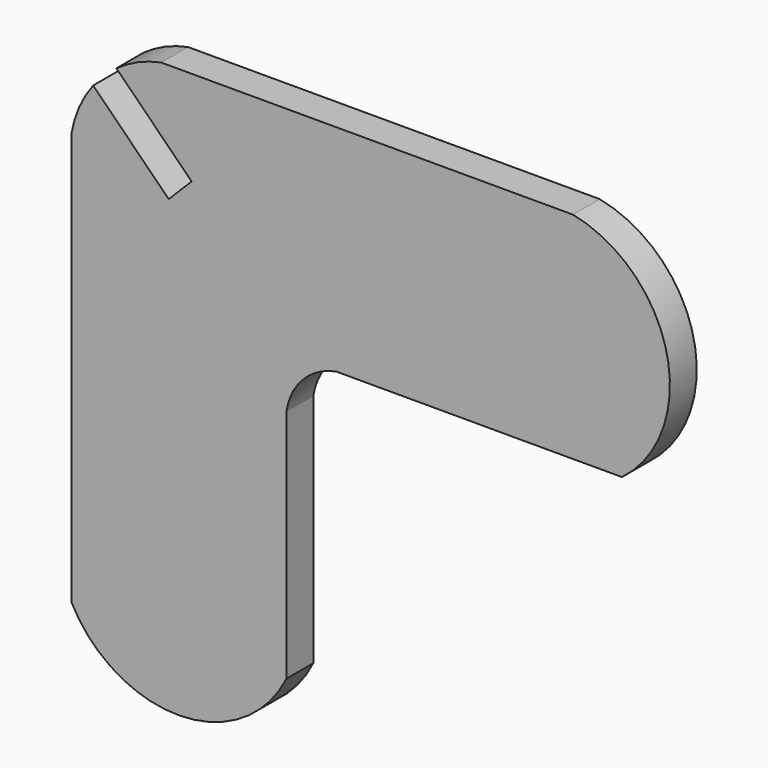
from build123d import *

# Parameters (mm, degrees)
F1_DEPTH = 3


with BuildPart() as f1:
    # F0 (on Front) → F1 (new body)
    with BuildSketch(Plane.XZ):
        with BuildLine():
            Line((-2.976018237, -3.4522186304), (-2.976018237, -0.7112144958))
            Line((-2.976018237, -0.7112144958), (-4.8061137058, 1.118880973))
            Line((-4.8061137058, 1.118880973), (-22.2056694329, 1.118880973))
            Line((-22.2056694329, 1.118880973), (-22.2056694329, -24.7238390148))
            ThreePointArc((-22.2056694329, -24.7238390148), (-12.5206211591, -30.5080748055), (-2.976018237, -24.494914338))
            Line((-2.976018237, -24.494914338), (-2.976018237, -5.1255999133))
            ThreePointArc((-2.976018237, -5.1255999133), (-3.0401081093, -4.2889092718), (-2.9760182369, -3.4522186304))
        make_face()
        with BuildLine():
            Line((-22.2056694329, 1.118880973), (-13.5058912988, 9.818658566))
            Line((-13.5058912988, 9.818658566), (-20.2551439519, 16.5679112191))
            ThreePointArc((-20.2551439519, 16.5679112191), (-21.4976121103, 14.4704948921), (-22.2056694329, 12.1377846226))
            Line((-22.2056694329, 12.1377846226), (-22.2056694329, 1.118880973))
        make_face()
        Polygon((-2.976018237, 3.3900048351), (-2.976018237, 20.348530973), (-11.4552815696, 11.8692681677), align=None)
        Polygon((-4.8061137058, 1.118880973), (-13.5058912988, 9.818658566), (-22.2056694329, 1.118880973), align=None)
        with BuildLine():
            Line((22.6377740155, 20.348530973), (-2.976018237, 20.348530973))
            Line((-2.976018237, 20.348530973), (-2.976018237, 3.3900048351))
            Line((-2.976018237, 3.3900048351), (-0.7048943749, 1.118880973))
            Line((-0.7048943749, 1.118880973), (1.486654611, 1.118880973))
            ThreePointArc((1.486654611, 1.118880973), (2.4534177425, 1.20461658), (3.4201808739, 1.118880973))
            Line((3.4201808739, 1.118880973), (27.0130801946, 1.118880973))
            ThreePointArc((27.0130801946, 1.118880973), (31.028528745, 12.1450925003), (22.6377740155, 20.348530973))
        make_face()
        with BuildLine():
            Line((-2.976018237, 20.348530973), (-14.1827978541, 20.348530973))
            ThreePointArc((-14.1827978541, 20.348530973), (-16.2761490838, 19.6875478868), (-18.179069268, 18.5930558661))
            Line((-18.179069268, 18.5930558661), (-11.4552815696, 11.8692681677))
            Line((-11.4552815696, 11.8692681677), (-2.976018237, 20.348530973))
        make_face()
        Polygon((-2.976018237, 1.118880973), (-2.976018237, 3.3900048351), (-11.4552815696, 11.8692681677), (-13.5058912988, 9.818658566), (-4.8061137058, 1.118880973), align=None)
        Polygon((-2.976018237, -0.7112144958), (-2.976018237, 1.118880973), (-4.8061137058, 1.118880973), align=None)
        with BuildLine():
            Line((-0.7048943749, 1.118880973), (-2.976018237, 1.118880973))
            Line((-2.976018237, 1.118880973), (-2.976018237, -0.7112144958))
            Line((-2.976018237, -0.7112144958), (-2.976018237, -3.4522186304))
            ThreePointArc((-2.9760182369, -3.4522186304), (-1.4774318683, -0.4512996484), (1.486654611, 1.118880973))
            Line((1.486654611, 1.118880973), (-0.7048943749, 1.118880973))
        make_face()
        Polygon((-0.7048943749, 1.118880973), (-2.976018237, 3.3900048351), (-2.976018237, 1.118880973), align=None)
        with BuildLine():
            Line((-2.976018237, -5.1255999133), (-2.976018237, -3.4522186304))
            ThreePointArc((-2.9760182369, -3.4522186304), (-3.0401081093, -4.2889092718), (-2.976018237, -5.1255999133))
        make_face()
        with BuildLine():
            ThreePointArc((3.4201808739, 1.118880973), (2.4534177425, 1.20461658), (1.486654611, 1.118880973))
            Line((1.486654611, 1.118880973), (3.4201808739, 1.118880973))
        make_face()
    extrude(amount=F1_DEPTH)


solid = f1.part
